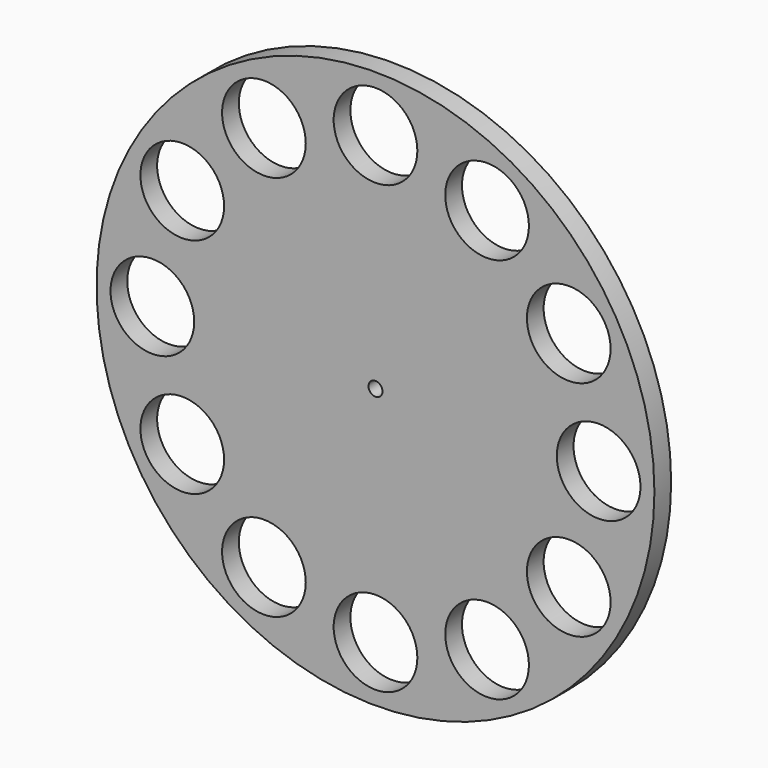
from build123d import *

# Parameters (mm, degrees)
F0_R     = 63.5
F0_R_2   = 9.525
F0_R_3   = 1.5875
F1_DEPTH = 4.7625


with BuildPart() as f1:
    # F0 (on Front) → F1 (new body)
    with BuildSketch(Plane.XZ):
        Circle(F0_R)
        with Locations((-25.4, -43.994091)):
            Circle(F0_R_2, mode=Mode.SUBTRACT)
        with Locations((-43.994091, -25.4)):
            Circle(F0_R_2, mode=Mode.SUBTRACT)
        with Locations((0, -50.8)):
            Circle(F0_R_2, mode=Mode.SUBTRACT)
        with Locations((25.4, -43.994091)):
            Circle(F0_R_2, mode=Mode.SUBTRACT)
        with Locations((43.994091, -25.4)):
            Circle(F0_R_2, mode=Mode.SUBTRACT)
        with Locations((-50.8, 0)):
            Circle(F0_R_2, mode=Mode.SUBTRACT)
        with Locations((-43.994091, 25.4)):
            Circle(F0_R_2, mode=Mode.SUBTRACT)
        with Locations((-25.4, 43.994091)):
            Circle(F0_R_2, mode=Mode.SUBTRACT)
        Circle(F0_R_3, mode=Mode.SUBTRACT)
        with Locations((50.8, 0)):
            Circle(F0_R_2, mode=Mode.SUBTRACT)
        with Locations((43.994091, 25.4)):
            Circle(F0_R_2, mode=Mode.SUBTRACT)
        with Locations((25.4, 43.994091)):
            Circle(F0_R_2, mode=Mode.SUBTRACT)
        with Locations((0, 50.8)):
            Circle(F0_R_2, mode=Mode.SUBTRACT)
    extrude(amount=F1_DEPTH)


solid = f1.part
